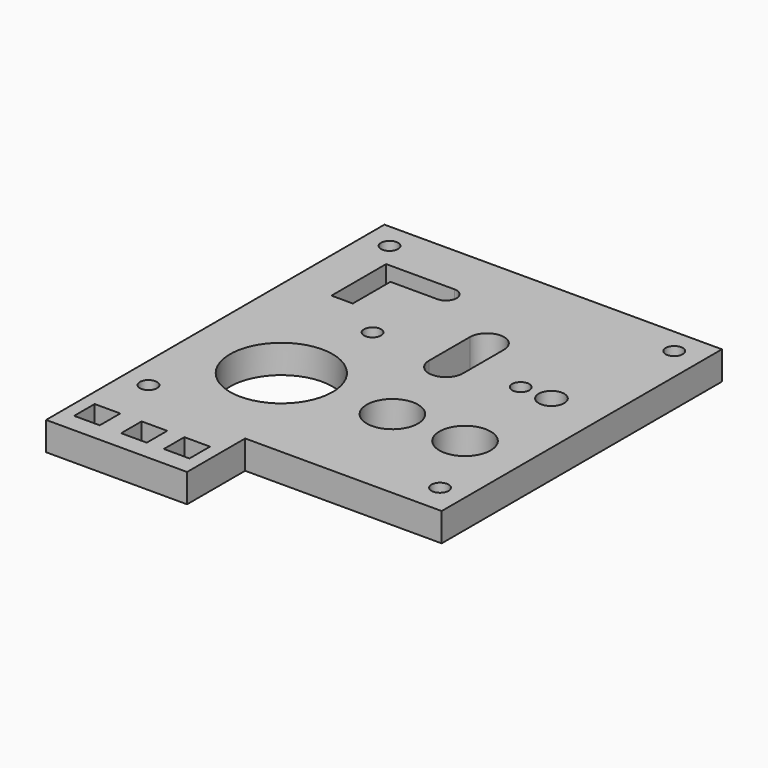
from build123d import *

# Parameters (mm, degrees)
F0_W     = 9
F0_H     = 9
F0_R     = 3
F0_R_2   = 18
F0_R_3   = 9
F0_R_4   = 4.5
F1_DEPTH = 10


with BuildPart() as f1:
    # F0 (on Top) → F1 (new body)
    with BuildSketch(Plane.XY):
        Polygon((49.276882, 69.50716), (-69.223118, 69.50716), (-69.223118, -78.99284), (-19.723118, -78.99284), (-19.723118, -53.49284), (49.276882, -53.49284), align=None)
        with Locations((-60.223118, -67.803344)):
            Rectangle(F0_W, F0_H, mode=Mode.SUBTRACT)
        with Locations((-43.723118, -67.803344)):
            Rectangle(F0_W, F0_H, mode=Mode.SUBTRACT)
        with Locations((-60.223118, -45.303344)):
            Circle(F0_R, mode=Mode.SUBTRACT)
        with Locations((-28.723118, -67.803344)):
            Rectangle(F0_W, F0_H, mode=Mode.SUBTRACT)
        with Locations((-36.221969, -16.99284)):
            Circle(F0_R_2, mode=Mode.SUBTRACT)
        with Locations((40.278031, -42.957689)):
            Circle(F0_R, mode=Mode.SUBTRACT)
        with Locations((2.778031, -16.99284)):
            Circle(F0_R_3, mode=Mode.SUBTRACT)
        with Locations((28.278031, -16.99284)):
            Circle(F0_R_3, mode=Mode.SUBTRACT)
        with Locations((-31.781744, 17.50716)):
            Circle(F0_R, mode=Mode.SUBTRACT)
        with BuildLine():
            Line((-54.223118, 27.50716), (-54.223118, 51.50716))
            Line((-54.223118, 51.50716), (-30.223118, 51.50716))
            ThreePointArc((-30.223118, 51.50716), (-26.473118, 47.75716), (-30.223118, 44.00716))
            Line((-30.223118, 44.00716), (-46.723118, 44.00716))
            Line((-46.723118, 44.00716), (-46.723118, 27.50716))
            Line((-46.723118, 27.50716), (-54.223118, 27.50716))
        make_face(mode=Mode.SUBTRACT)
        with Locations((-60.223118, 60.50716)):
            Circle(F0_R, mode=Mode.SUBTRACT)
        with BuildLine():
            Line((-9.223118, 14.00716), (-9.223118, 32.00716))
            ThreePointArc((-9.223118, 32.00716), (-3.223118, 38.00716), (2.776882, 32.00716))
            Line((2.776882, 32.00716), (2.776882, 14.00716))
            ThreePointArc((2.776882, 14.00716), (-3.223118, 8.00716), (-9.223118, 14.00716))
        make_face(mode=Mode.SUBTRACT)
        with Locations((20.23034, 17.50716)):
            Circle(F0_R, mode=Mode.SUBTRACT)
        with Locations((31.014569, 17.50716)):
            Circle(F0_R_4, mode=Mode.SUBTRACT)
        with Locations((39.73034, 60.50716)):
            Circle(F0_R, mode=Mode.SUBTRACT)
    extrude(amount=F1_DEPTH)


solid = f1.part
